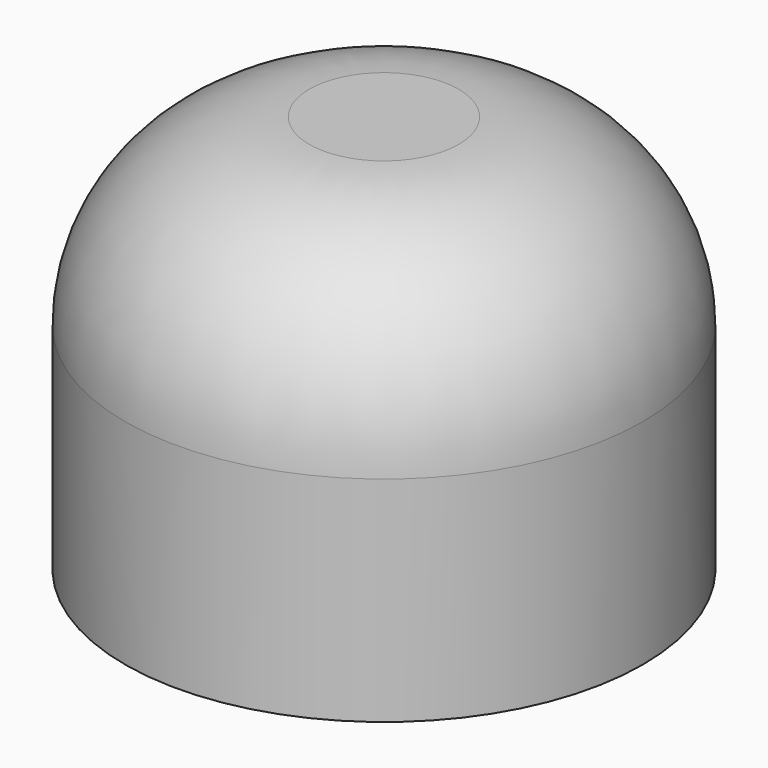
from build123d import *

# Parameters (mm, degrees)
F0_R     = 39.651644
F1_DEPTH = 60.96
F2_R     = 28.207671
F3_R     = 36.676793
F4_DEPTH = 40.64
F5_R     = 30.660512


with BuildPart() as f1:
    # F0 (on Top) → F1 (new body)
    with BuildSketch(Plane.XY):
        with Locations((-3.995102, 10.149716)):
            Circle(F0_R)
    extrude(amount=F1_DEPTH)

    # F2
    f2_edges = [f1.edges().sort_by_distance(p)[0] for p in [
        (-43.646746, 10.149716, 60.96),
    ]]
    fillet(f2_edges, radius=F2_R)

    # F3 (on face) → F4 (cut)
    with BuildSketch(Plane(origin=(0, 0, 0), x_dir=(1, 0, 0), z_dir=(0, 0, -1))):
        with Locations((-3.995102, -10.149716)):
            Circle(F3_R)
    extrude(amount=-F4_DEPTH, mode=Mode.SUBTRACT)

    # F5
    f5_edges = [f1.edges().sort_by_distance(p)[0] for p in [
        (-40.671895, 10.149716, 40.64),
    ]]
    fillet(f5_edges, radius=F5_R)


solid = f1.part
